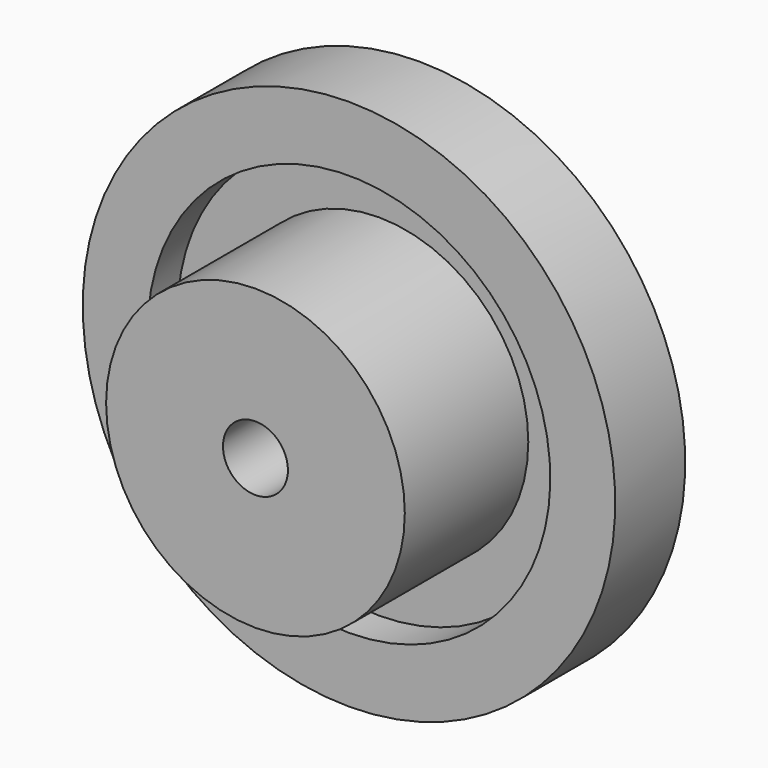
from build123d import *

# Parameters (mm, degrees)
F0_W     = 25.8305106723
F0_H     = 45.72
F0_W_2   = 19.5881370437
F0_H_2   = 20.32
F2_DEPTH = 34.544


with BuildPart() as f1:
    # F0 (on Right) → F1 (revolve)
    with BuildSketch(Plane.YZ):
        Polygon((0, -104.14), (0, -78.74), (-19.5881370437, -78.74), (-34.2254221025, -78.74), (-34.2254221025, -104.14), align=None)
        with Locations((-32.5033923798, -35.56)):
            Rectangle(F0_W, F0_H)
        with Locations((-9.7940685218, -68.58)):
            Rectangle(F0_W_2, F0_H_2)
        with Locations((-9.7940685218, -35.56)):
            Rectangle(F0_W_2, F0_H)
    revolve(axis=Axis((0, -33.0415281269, 0), (0, -1, 0)))

    # F2 (add): a face of the model
    f2_faces = [f1.faces().sort_by_distance(p)[0] for p in [
        (0, -45.418647716, 14.3523671263),
    ]]
    extrude(f2_faces, amount=F2_DEPTH)


solid = f1.part
